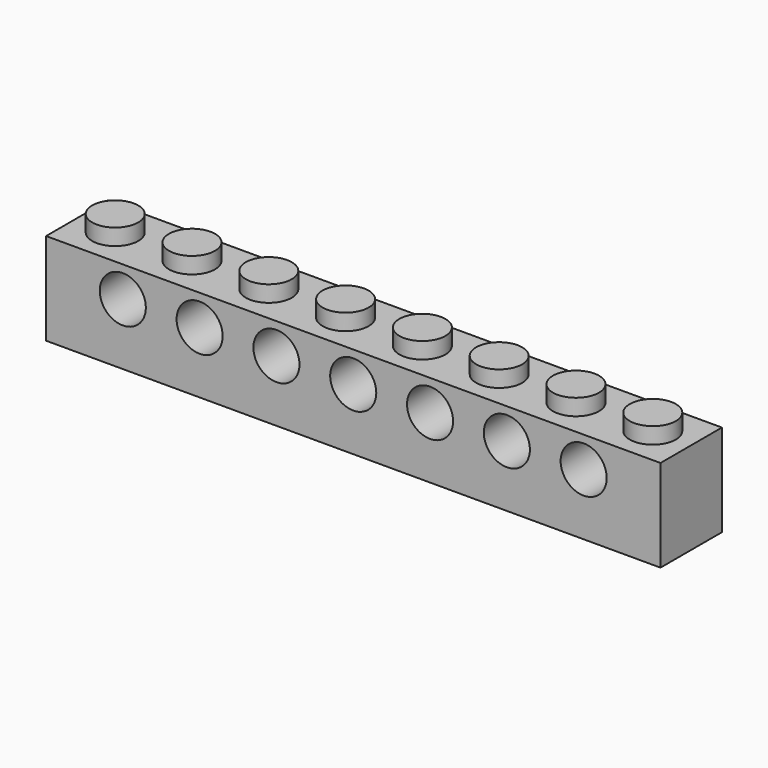
from build123d import *

# Parameters (mm, degrees)
F1_DEPTH  = 8
F3_W      = 8
F3_H      = 8
F3_R      = 2.4
F4_DEPTH  = 1.7
F5_R      = 2.4
F6_DEPTH  = 1.7
F13_R     = 2.4
F14_DEPTH = 25.4


with BuildPart() as f1:
    # F0 (on Front) → F1 (new body)
    with BuildSketch(Plane.XZ):
        Polygon((-2.4, 9.6), (-4, 9.6), (-4, 0), (4, 0), (4, 9.6), (2.4, 9.6), (2.4, 11.3), (-2.4, 11.3), align=None)
    extrude(amount=F1_DEPTH)

    # F3 (on plane+point) → F4 (cut, through all)
    with BuildSketch(Plane.XY.offset(11.3)):
        with Locations((0, -4)):
            Rectangle(F3_W, F3_H)
        with Locations((0, -4)):
            Circle(F3_R, mode=Mode.SUBTRACT)
    extrude(amount=-F4_DEPTH, mode=Mode.SUBTRACT)

    # F5 (on Top) → F6 (cut)
    with BuildSketch(Plane.XY):
        with Locations((0, -4)):
            Circle(F5_R)
    extrude(amount=F6_DEPTH, mode=Mode.SUBTRACT)

    # F8: F1 across plane


with BuildPart() as f1_1:
    add(f1.part)
    add(f1.part.mirror(Plane.YZ.offset(4)))

    # F10: F1 across plane


with BuildPart() as f1_2:
    add(f1_1.part)
    add(f1_1.part.mirror(Plane.YZ.offset(12)))

    # F12: F1 across plane


with BuildPart() as f1_3:
    add(f1_2.part)
    add(f1_2.part.mirror(Plane.YZ.offset(28)))

    # F13 (on Front) → F14 (cut)
    with BuildSketch(Plane.XZ):
        with Locations((51.999, 6.4008)):
            Circle(F13_R)
        with Locations((43.998, 6.4008)):
            Circle(F13_R)
        with Locations((35.997, 6.4008)):
            Circle(F13_R)
        with Locations((27.996, 6.4008)):
            Circle(F13_R)
        with Locations((19.995, 6.4008)):
            Circle(F13_R)
        with Locations((11.994, 6.4008)):
            Circle(F13_R)
        with Locations((3.993, 6.4008)):
            Circle(F13_R)
    extrude(amount=F14_DEPTH, mode=Mode.SUBTRACT)


solid = f1_3.part
